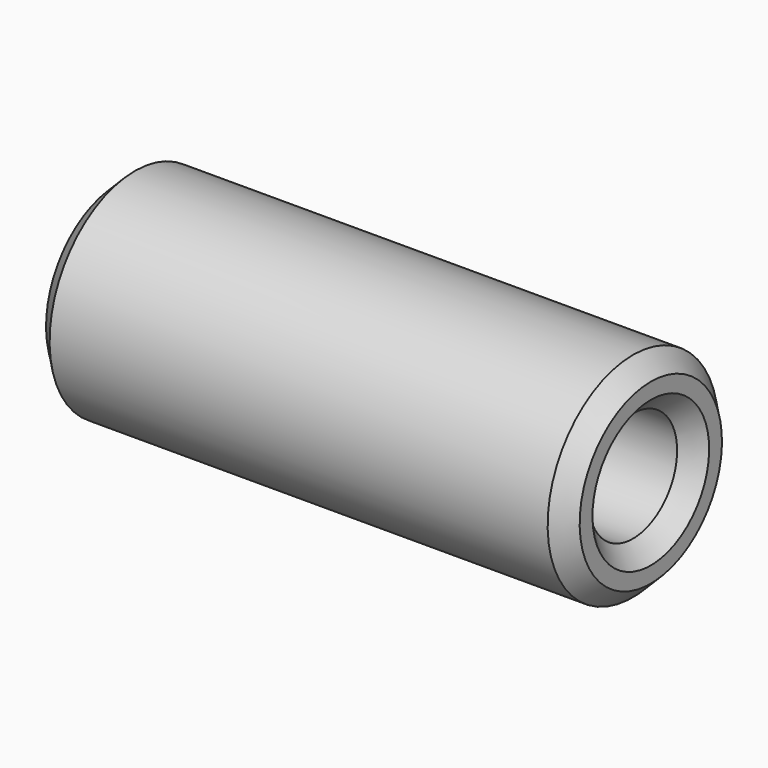
from build123d import *

# Parameters (mm, degrees)
F0_W    = 30
F0_H    = 2.9
F2_SIZE = 1


with BuildPart() as f1:
    # F0 (on Front) → F1 (revolve)
    with BuildSketch(Plane.XZ):
        with Locations((15, 4.55)):
            Rectangle(F0_W, F0_H)
    revolve(axis=Axis((16.817251, 0, 0), (1, 0, 0)))

    # F2
    f2_edges = [f1.edges().sort_by_distance(p)[0] for p in [
        (30, 0, -3.1),
        (30, 0, -6),
        (0, 0, -6),
        (0, 0, -3.1),
    ]]
    chamfer(f2_edges, length=F2_SIZE)


solid = f1.part
